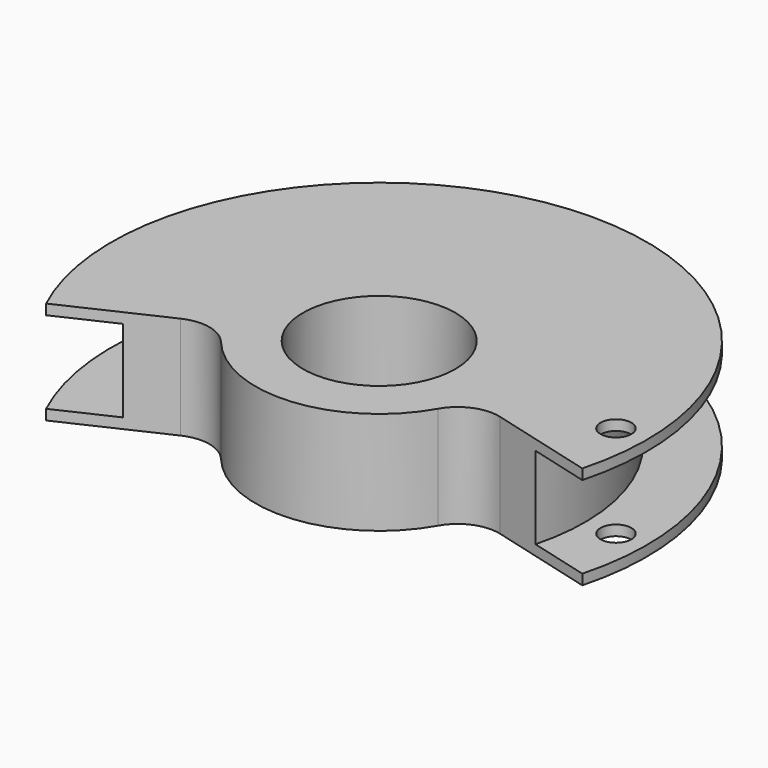
from build123d import *

# Parameters (mm, degrees)
F2_R     = 4.7625
F3_DEPTH = 50.8
F5_DEPTH = 31.751
F6_R     = 12.7


with BuildPart() as f1:
    # F0 (on Front) → F1 (revolve)
    with BuildSketch(Plane.XZ):
        Polygon((29.845, 15.875), (23.495, 15.875), (23.495, -15.875), (29.845, -15.875), (60.325, -15.875), (82.55, -15.875), (82.55, -12.7), (63.5, -12.7), (63.5, 12.7), (82.55, 12.7), (82.55, 15.875), (60.325, 15.875), align=None)
    revolve(axis=Axis((0, 0, 17.235907), (0, 0, 1)))

    # F2 (on Top) → F3 (cut, symmetric)
    with BuildSketch(Plane.XY):
        with Locations((73.025, 0)):
            Circle(F2_R)
    extrude(amount=F3_DEPTH, both=True, mode=Mode.SUBTRACT)

    # F4 (on face) → F5 (cut, through all)
    with BuildSketch(Plane.XY.offset(15.875)):
        with BuildLine():
            ThreePointArc((-74.815708, -34.887138), (7.194707, -82.235872), (79.737177, -21.365512))
            Line((79.737177, -21.365512), (36.801774, -9.861006))
            ThreePointArc((36.801774, -9.861006), (3.320634, -37.955018), (-34.530327, -16.101756))
            Line((-34.530327, -16.101756), (-74.815708, -34.887138))
        make_face()
        with BuildLine():
            ThreePointArc((-74.815708, -34.887138), (7.194707, -82.235872), (79.737177, -21.365512))
            Line((79.737177, -21.365512), (36.801774, -9.861006))
            ThreePointArc((36.801774, -9.861006), (3.320634, -37.955018), (-34.530327, -16.101756))
            Line((-34.530327, -16.101756), (-74.815708, -34.887138))
        make_face()
    extrude(amount=-F5_DEPTH, mode=Mode.SUBTRACT)

    # F6
    f6_edges = [f1.edges().sort_by_distance(p)[0] for p in [
        (-34.530327, -16.101756, 0),
        (36.801774, -9.861006, 0),
    ]]
    fillet(f6_edges, radius=F6_R)


solid = f1.part
